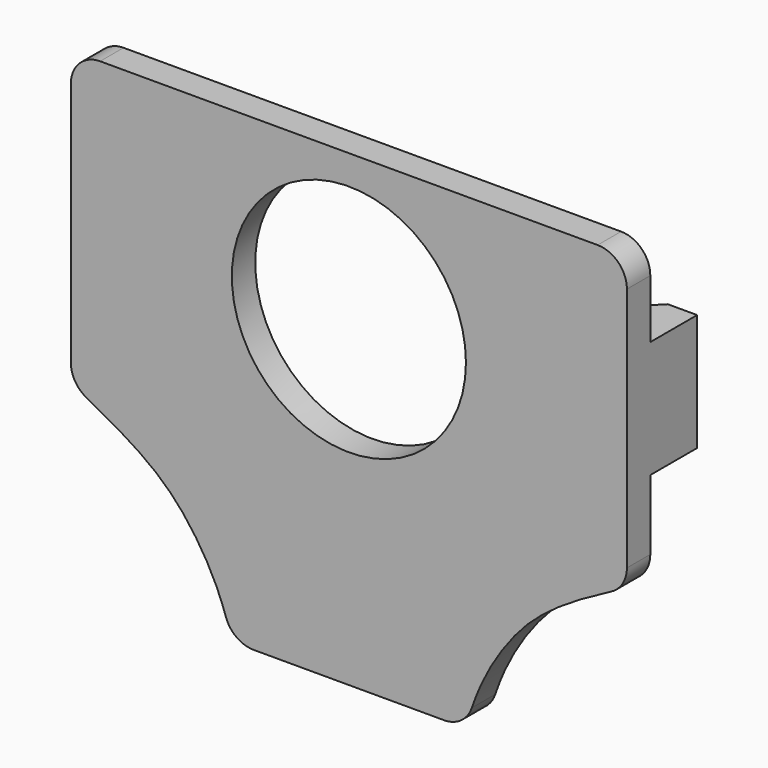
from build123d import *

# Parameters (mm, degrees)
F0_W          = 38
F0_H          = 20
F1_DEPTH      = 2
F2_R          = 2
F3_R          = 8
F4_DEPTH      = 2
F6_DEPTH      = 4
F6_DEPTH_BACK = 4


with BuildPart() as f1:
    # F0 (on Front) → F1 (new body)
    with BuildSketch(Plane.XZ):
        with BuildLine():
            add(Edge.make_bspline(
                [(19, -10), (14.1880401769, -12.4002225701), (11.0551596639, -15.0185183176), (8.6638560302, -19.389195231), (8, -22)],
                knots=[0, 0, 0, 0, 0.5443359888, 1, 1, 1, 1], degree=3))
            Line((19, -10), (-19, -10))
            add(Edge.make_bspline(
                [(-19, -10), (-14.1880401769, -12.4002225701), (-11.0551596639, -15.0185183176), (-8.6638560302, -19.389195231), (-8, -22)],
                knots=[0, 0, 0, 0, 0.5443359888, 1, 1, 1, 1], degree=3))
            Line((-8, -22), (0, -22))
            Line((0, -22), (8, -22))
        make_face()
        Rectangle(F0_W, F0_H)
    extrude(amount=F1_DEPTH)

    # F2
    f2_edges = [f1.edges().sort_by_distance(p)[0] for p in [
        (-19, -1, 10),
        (19, -1, 10),
        (-8, -1, -22),
        (8, -1, -22),
        (-19, -1, -10),
        (19, -1, -10),
    ]]
    fillet(f2_edges, radius=F2_R)

    # F3 (on face) → F4 (cut, through all)
    with BuildSketch(Plane.XZ.offset(2)):
        Circle(F3_R)
    extrude(amount=-F4_DEPTH, mode=Mode.SUBTRACT)

    # F5 (on Top) → F6 (join, two sides)
    with BuildSketch(Plane.XY) as f6_sk:
        Polygon((-19, 4), (-19, 0), (-17, 0), (-17, 2.2302730472), (-15.2302730472, 2.2302730472), (-17, 4), align=None)
        Polygon((17, 0), (19, 0), (19, 4), (17, 4), (15.2302730472, 2.2302730472), (17, 2.2302730472), align=None)
    extrude(amount=F6_DEPTH)
    extrude(f6_sk.sketch, amount=-F6_DEPTH_BACK)


solid = f1.part
